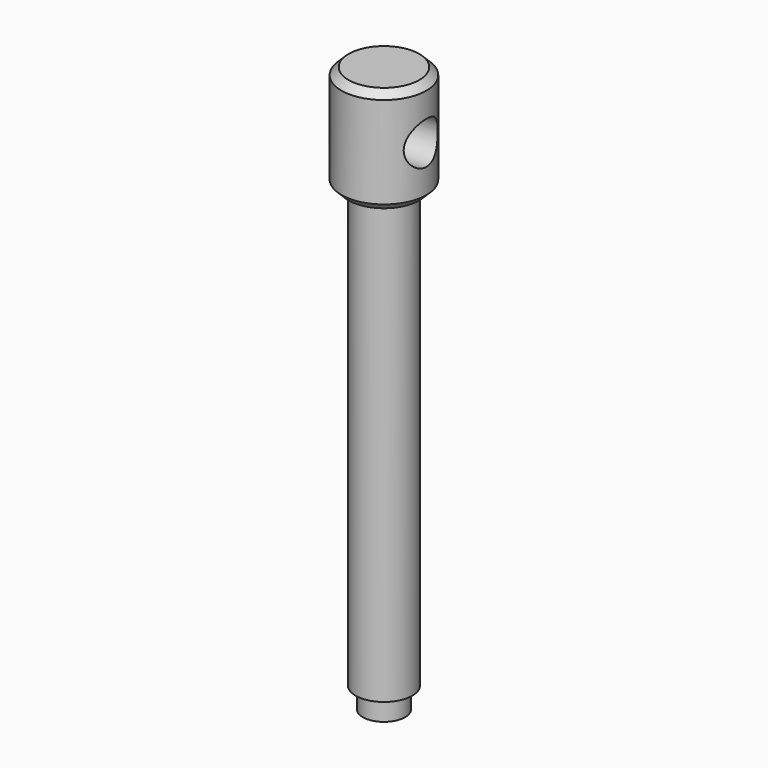
from build123d import *

# Parameters (mm, degrees)
F2_SIZE2 = 1
F2_SIZE  = 1
F3_R     = 3
F4_DEPTH = 12.5


with BuildPart() as f1:
    # F0 (on Front) → F1 (revolve)
    with BuildSketch(Plane.XZ):
        Polygon((-4, 65), (-4, 3), (-3, 3), (-3, 0), (0, 0), (0, 80), (-6, 80), (-6, 65), align=None)
    revolve(axis=Axis((0, 0, 40), (0, 0, -1)))

    # F2
    f2_edges = [f1.edges().sort_by_distance(p)[0] for p in [
        (6, 0, 80),
        (6, 0, 65),
    ]]
    chamfer(f2_edges, length=F2_SIZE, length2=F2_SIZE2)

    # F3 (on Right) → F4 (cut, symmetric)
    with BuildSketch(Plane.YZ):
        with Locations((0, 72.5)):
            Circle(F3_R)
    extrude(amount=F4_DEPTH, both=True, mode=Mode.SUBTRACT)


solid = f1.part
